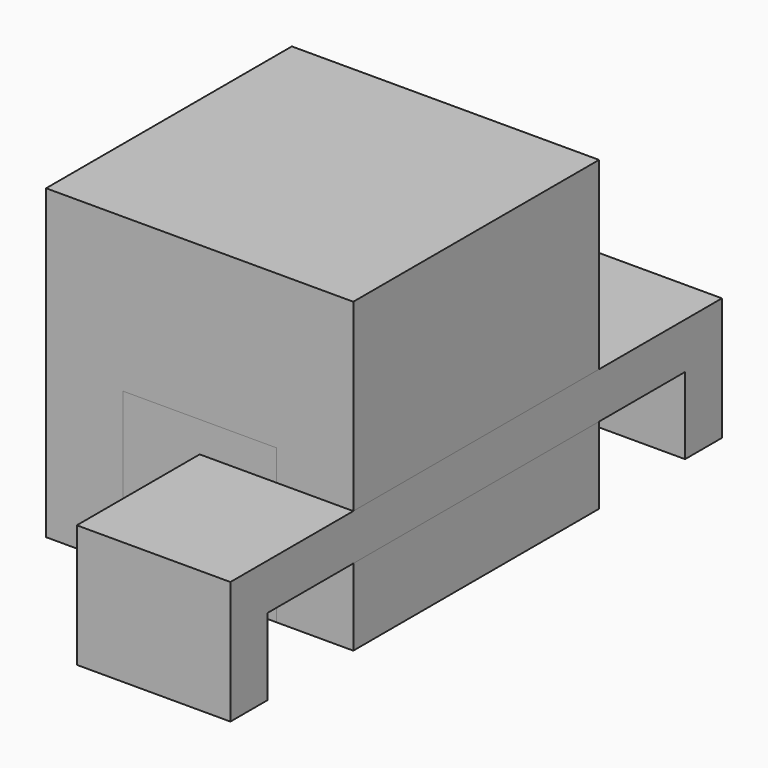
from build123d import *

# Parameters (mm, degrees)
F0_W     = 20
F0_H     = 20
F1_DEPTH = 20
F2_W     = 10
F2_H     = 20
F3_DEPTH = 10
F4_W     = 17
F4_H     = 3
F5_DEPTH = 10


with BuildPart() as f1:
    # F0 (on Top) → F1 (new body)
    with BuildSketch(Plane.XY):
        Rectangle(F0_W, F0_H)
    extrude(amount=F1_DEPTH)


with BuildPart() as f3:
    # F2 (on Top) → F3 (new body)
    with BuildSketch(Plane.XY):
        Rectangle(F2_W, F2_H)
    extrude(amount=F3_DEPTH)


with BuildPart() as f5:
    # F4 (on Right) → F5 (new body)
    with BuildSketch(Plane.YZ):
        Polygon((-20, 8), (-20, 0), (-17, 0), (-17, 5), (-17, 8), align=None)
        with Locations((-8.5, 6.5)):
            Rectangle(F4_W, F4_H)
        with Locations((8.5, 6.5)):
            Rectangle(F4_W, F4_H)
        Polygon((17, 8), (17, 5), (17, 0), (20, 0), (20, 8), align=None)
    extrude(amount=F5_DEPTH)


solid = Compound([f1.part, f3.part, f5.part])
